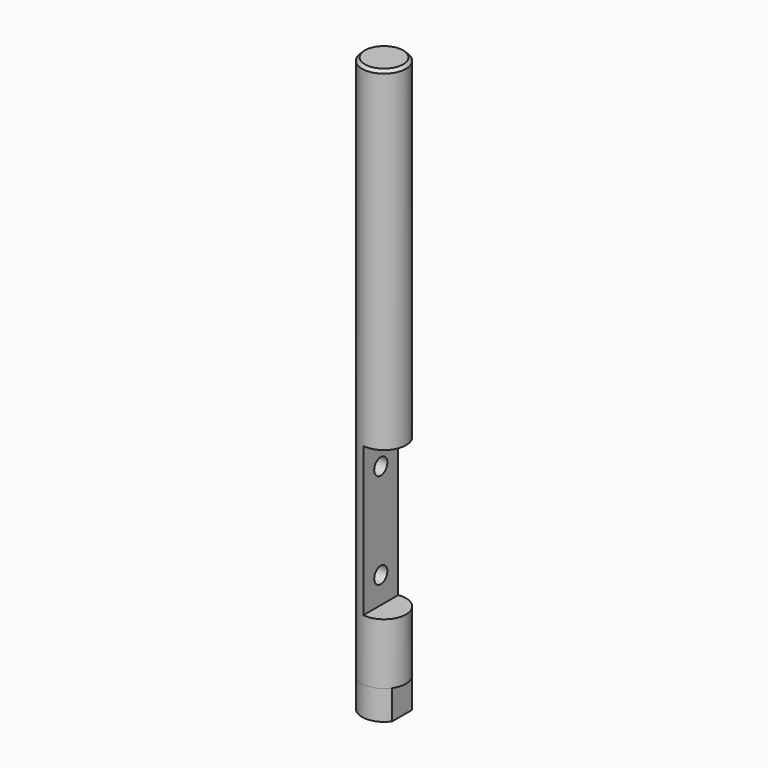
from build123d import *

# Parameters (mm, degrees)
F0_R     = 4.7625
F1_DEPTH = 117.856
F2_W     = 9.525
F2_H     = 32.258
F3_DEPTH = 25.4
F4_DEPTH = 0.6985
F5_R     = 1.778
F6_DEPTH = 25.4
F8_DEPTH = 6.35
F9_SIZE  = 0.635


with BuildPart() as f1:
    # F0 (on Top) → F1 (new body)
    with BuildSketch(Plane.XY):
        Circle(F0_R)
    extrude(amount=F1_DEPTH)

    # F2 (on Right) → F3 (cut)
    with BuildSketch(Plane.YZ):
        with Locations((0, 29.337)):
            Rectangle(F2_W, F2_H)
    extrude(amount=F3_DEPTH, mode=Mode.SUBTRACT)

    # F2 (on Right) → F4 (cut)
    with BuildSketch(Plane.YZ):
        with Locations((0, 29.337)):
            Rectangle(F2_W, F2_H)
    extrude(amount=-F4_DEPTH, mode=Mode.SUBTRACT)

    # F5 (on face) → F6 (cut)
    with BuildSketch(Plane.YZ):
        with Locations((0, 39.6748)):
            Circle(F5_R)
        with Locations((0, 18.9738)):
            Circle(F5_R)
    extrude(amount=-F6_DEPTH, mode=Mode.SUBTRACT)

    # F7 (on face) → F8 (join)
    with BuildSketch(Plane.XY):
        with BuildLine():
            Line((3.928686, -2.691995), (3.928686, 2.691995))
            ThreePointArc((3.928686, 2.691995), (-4.7625, 0), (3.928686, -2.691995))
        make_face()
    extrude(amount=-F8_DEPTH)

    # F9
    f9_edges = [f1.edges().sort_by_distance(p)[0] for p in [
        (-4.7625, 0, 117.856),
    ]]
    chamfer(f9_edges, length=F9_SIZE)


solid = f1.part
